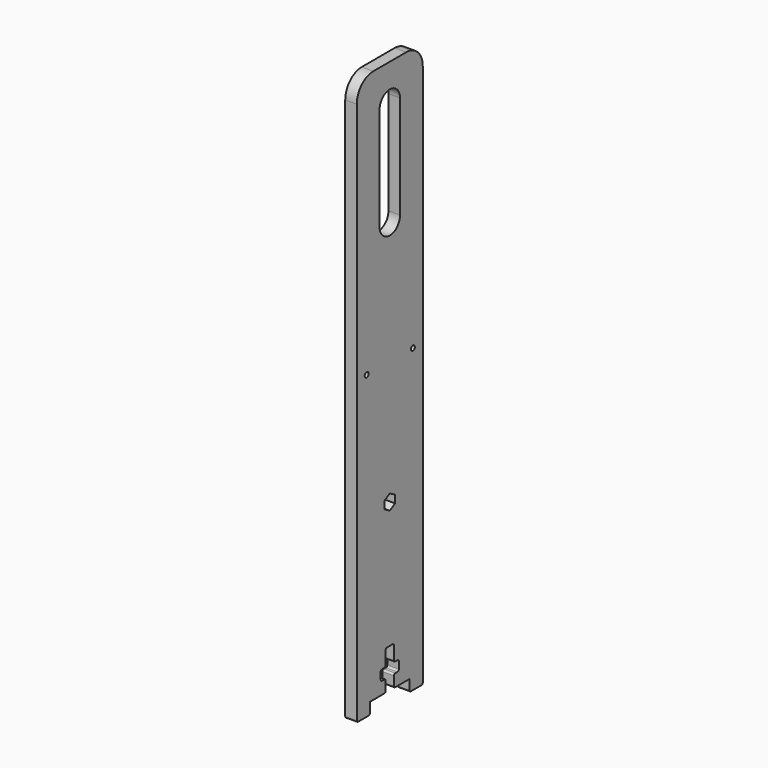
from build123d import *

# Parameters (mm, degrees)
SKETCH001_R             = 0.6
PAD004_DEPTH            = 2.8
FILLET_R                = 0.4
FILLET001_R             = 5
BODY014_PLACEMENT_ANGLE = 180


with BuildPart() as part:
    # Sketch001 (on DatumPlane) → Pad004 (new body)
    with BuildSketch(Plane(origin=(-24.3, 0, 0), x_dir=(0, -1, 0), z_dir=(-1, 0, 0))):
        Polygon((-10, 84), (10, 84), (10, -53), (6, -53), (6, -50.2), (1.25, -50.2), (1.25, -47.2), (2.75, -47.2), (2.75, -44.7), (1.25, -44.7), (1.25, -40.7), (-1.25, -40.7), (-1.25, -44.7), (-2.75, -44.7), (-2.75, -47.2), (-1.25, -47.2), (-1.25, -50.2), (-6, -50.2), (-6, -53), (-10, -53), align=None)
        with Locations((-7, 20)):
            Circle(SKETCH001_R, mode=Mode.SUBTRACT)
        with Locations((7, 20)):
            Circle(SKETCH001_R, mode=Mode.SUBTRACT)
        Polygon((1.6, -9.07624), (0, -8.152479), (-1.6, -9.07624), (-1.6, -10.92376), (0, -11.847521), (1.6, -10.92376), align=None, mode=Mode.SUBTRACT)
        with BuildLine():
            ThreePointArc((3.1, 75), (0, 78.1), (-3.1, 75))
            Line((-3.1, 75), (-3.1, 50))
            ThreePointArc((-3.1, 50), (0, 46.9), (3.1, 50))
            Line((3.1, 50), (3.1, 75))
        make_face(mode=Mode.SUBTRACT)
    extrude(amount=PAD004_DEPTH)

    # Fillet
    fillet_edges = [part.edges().sort_by_distance(p)[0] for p in [
        (-25.7, 10, -53),
        (-25.7, 6, -53),
        (-25.7, -10, -53),
        (-25.7, -6, -53),
        (-25.7, 1.25, -50.2),
        (-25.7, -1.25, -50.2),
        (-25.7, 1.25, -40.7),
        (-25.7, -1.25, -40.7),
        (-25.7, 1.25, -47.2),
        (-25.7, -1.25, -47.2),
        (-25.7, 1.25, -44.7),
        (-25.7, -1.25, -44.7),
        (-25.7, -2.75, -47.2),
        (-25.7, 2.75, -47.2),
        (-25.7, 2.75, -44.7),
        (-25.7, -2.75, -44.7),
    ]]
    fillet(fillet_edges, radius=FILLET_R)

    # Fillet001
    fillet001_edges = [part.edges().sort_by_distance(p)[0] for p in [
        (-25.7, 10, 84),
        (-25.7, -10, 84),
    ]]
    fillet(fillet001_edges, radius=FILLET001_R)


with BuildPart() as part_1:
    # Body014 placement: moved
    add(part.part.moved(Location((0, 0, 20))).rotate(Axis((0, 0, 20), (0, 0, 1)), BODY014_PLACEMENT_ANGLE))


solid = part_1.part
